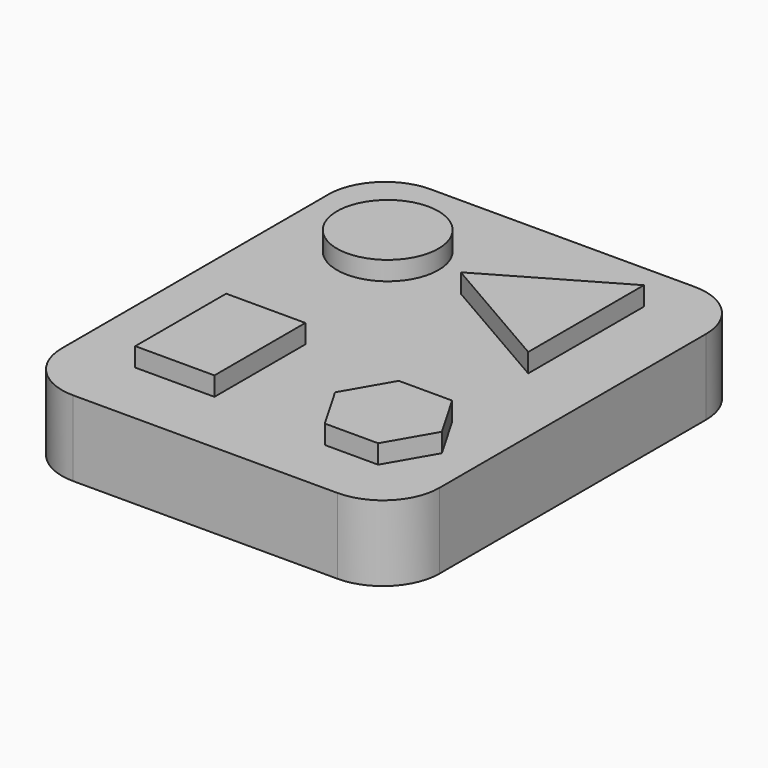
from build123d import *

# Parameters (mm, degrees)
F1_DEPTH = 1
F2_R     = 2.685678
F2_W     = 4.193648
F2_H     = 6.018553
F3_DEPTH = 4
F4_DEPTH = 4


with BuildPart() as f1:
    # F0 (on Top) → F1 (new body)
    with BuildSketch(Plane.XY):
        with BuildLine():
            Line((-7, -11.821264), (7, -11.821264))
            ThreePointArc((7, -11.821264), (9.12132, -10.942585), (10, -8.821264))
            Line((10, -8.821264), (10, 8.821264))
            ThreePointArc((10, 8.821264), (9.12132, 10.942585), (7, 11.821264))
            Line((7, 11.821264), (-7, 11.821264))
            ThreePointArc((-7, 11.821264), (-9.12132, 10.942585), (-10, 8.821264))
            Line((-10, 8.821264), (-10, -8.821264))
            ThreePointArc((-10, -8.821264), (-9.12132, -10.942585), (-7, -11.821264))
        make_face()
    extrude(amount=F1_DEPTH)

    # F2 (on face) → F3 (join)
    with BuildSketch(Plane.XY.offset(1)):
        with Locations((-4.900075, 6.37052)):
            Circle(F2_R)
        with Locations((-4.453282, -5.26884)):
            Rectangle(F2_W, F2_H)
        Polygon((6.725439, -3.897795), (3.898383, -3.897795), (2.484856, -6.346097), (3.898383, -8.794399), (6.725439, -8.794399), (8.138966, -6.346097), align=None)
        Polygon((6.464704, 1.465722), (6.464704, 9.123345), (-0.166992, 5.294533), align=None)
    extrude(amount=F3_DEPTH)


with BuildPart() as f4:
    # F0 (on Top) → F4 (new body)
    with BuildSketch(Plane.XY):
        with BuildLine():
            Line((-7, -11.821264), (7, -11.821264))
            ThreePointArc((7, -11.821264), (9.12132, -10.942585), (10, -8.821264))
            Line((10, -8.821264), (10, 8.821264))
            ThreePointArc((10, 8.821264), (9.12132, 10.942585), (7, 11.821264))
            Line((7, 11.821264), (-7, 11.821264))
            ThreePointArc((-7, 11.821264), (-9.12132, 10.942585), (-10, 8.821264))
            Line((-10, 8.821264), (-10, -8.821264))
            ThreePointArc((-10, -8.821264), (-9.12132, -10.942585), (-7, -11.821264))
        make_face()
    extrude(amount=F4_DEPTH)


solid = Compound([f1.part, f4.part])
